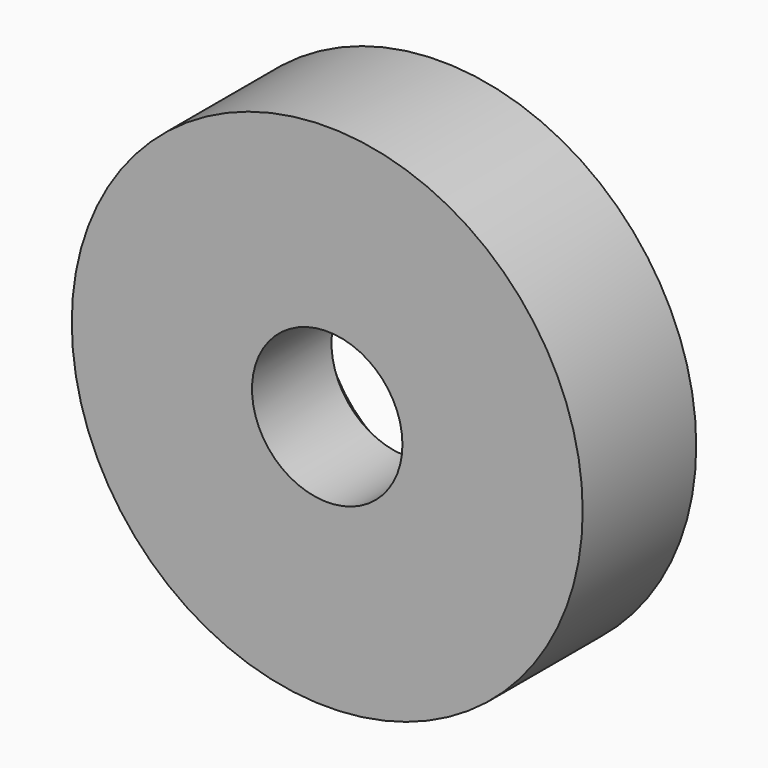
from build123d import *

# Parameters (mm, degrees)
F0_R     = 9
F1_DEPTH = 5
F2_R     = 4.15
F3_DEPTH = 1.5
F4_R     = 2.65
F5_DEPTH = 5.001


with BuildPart() as f1:
    # F0 (on Front) → F1 (new body)
    with BuildSketch(Plane.XZ):
        Circle(F0_R)
    extrude(amount=F1_DEPTH)

    # F2 (on face) → F3 (cut)
    with BuildSketch(Plane(origin=(0, 0, 0), x_dir=(-1, 0, 0), z_dir=(0, 1, 0))):
        Circle(F2_R)
    extrude(amount=-F3_DEPTH, mode=Mode.SUBTRACT)

    # F4 (on face) → F5 (cut, through all)
    with BuildSketch(Plane.XZ.offset(5)):
        Circle(F4_R)
    extrude(amount=-F5_DEPTH, mode=Mode.SUBTRACT)


solid = f1.part
